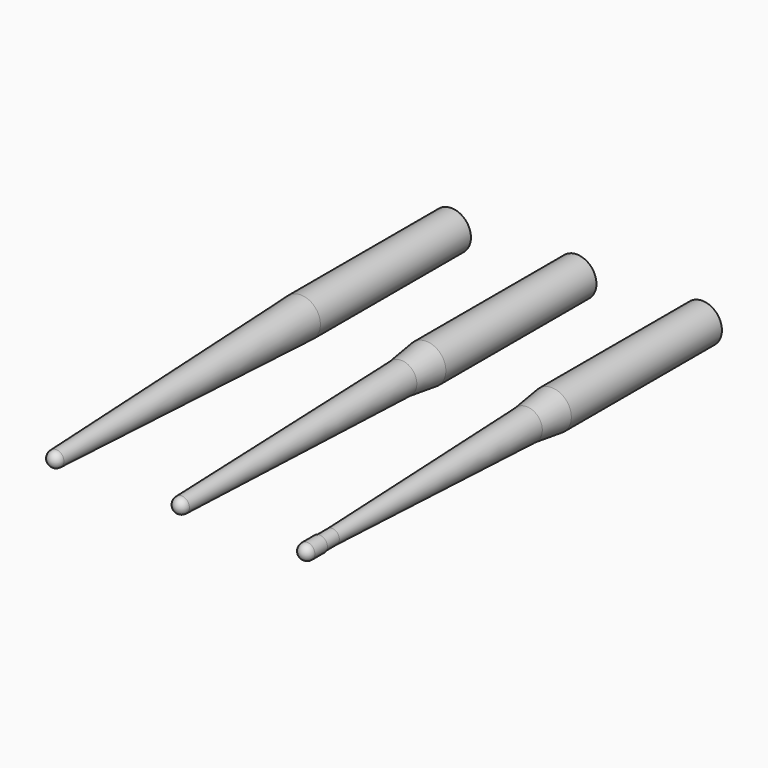
from build123d import *


with BuildPart() as f1:
    # F0 (on Top) → F1 (revolve)
    with BuildSketch(Plane.XY):
        with BuildLine():
            Line((1.5875, 1.5875), (1.5875, 4.7625))
            Line((1.5875, 4.7625), (1.4605, 4.7625))
            Line((1.4605, 4.7625), (1.4605, 7.9375))
            Line((1.4605, 7.9375), (3.175, 57.15))
            Line((3.175, 57.15), (3.96875, 63.5))
            Line((3.96875, 63.5), (3.96875, 101.6))
            Line((3.96875, 101.6), (0, 101.6))
            Line((0, 101.6), (0, 0))
            ThreePointArc((0, 0), (1.122532, 0.464968), (1.5875, 1.5875))
        make_face()
    revolve(axis=Axis((0, 50.8, 0), (0, -1, 0)))


with BuildPart() as f1_1:
    # F2: moved
    add(f1.part.moved(Location((25.4, 0, 0))))


with BuildPart() as f4:
    # F3 (on face) → F4 (revolve)
    with BuildSketch(Plane.XY):
        with BuildLine():
            Line((0, 101.6), (0, 0))
            ThreePointArc((0, 0), (1.122532, 0.464968), (1.5875, 1.5875))
            Line((1.5875, 1.5875), (3.175, 57.15))
            Line((3.175, 57.15), (3.96875, 63.5))
            Line((3.96875, 63.5), (3.96875, 101.6))
            Line((3.96875, 101.6), (0, 101.6))
        make_face()
    revolve(axis=Axis((0, 50.8, 0), (0, -1, 0)))


with BuildPart() as f4_1:
    # F5: moved
    add(f4.part.moved(Location((25.4, 0, 0))))


with BuildPart() as f1_2:
    # F5: moved
    add(f1_1.part.moved(Location((25.4, 0, 0))))


with BuildPart() as f7:
    # F6 (on face) → F7 (revolve)
    with BuildSketch(Plane.XY):
        with BuildLine():
            Line((0, 101.6), (0, 0))
            ThreePointArc((0, 0), (1.122532, 0.464968), (1.5875, 1.5875))
            Line((1.5875, 1.5875), (3.96875, 63.5))
            Line((3.96875, 63.5), (3.96875, 101.6))
            Line((3.96875, 101.6), (0, 101.6))
        make_face()
    revolve(axis=Axis((0, 50.8, 0), (0, -1, 0)))


solid = Compound([f4_1.part, f1_2.part, f7.part])
